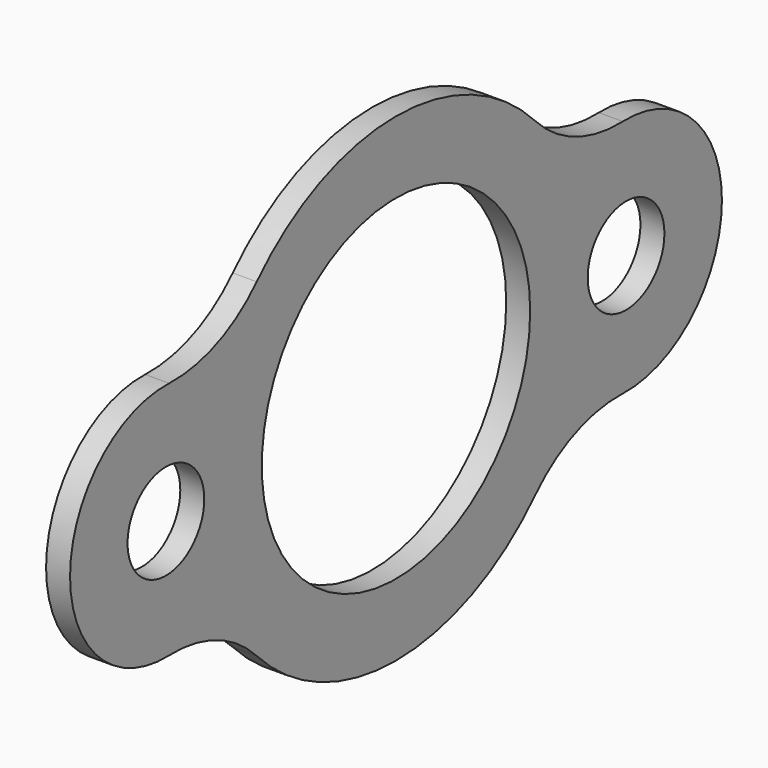
from build123d import *

# Parameters (mm, degrees)
F0_R     = 12.7
F0_R_2   = 44.45
F1_DEPTH = 6.35


with BuildPart() as f1:
    # F0 (on Right) → F1 (new body)
    with BuildSketch(Plane.YZ):
        with BuildLine():
            ThreePointArc((75.117614, 31.731545), (59.347524, 34.564632), (46.136719, 43.630874))
            ThreePointArc((46.136719, 43.630874), (0, 63.5), (-46.136719, 43.630874))
            ThreePointArc((-46.136719, 43.630874), (-59.347524, 34.564632), (-75.117614, 31.731545))
            ThreePointArc((-75.117614, 31.731545), (-107.95, 0), (-75.117614, -31.731545))
            ThreePointArc((-75.117614, -31.731545), (-59.347524, -34.564632), (-46.136719, -43.630874))
            ThreePointArc((-46.136719, -43.630874), (0, -63.5), (46.136719, -43.630874))
            ThreePointArc((46.136719, -43.630874), (59.347524, -34.564632), (75.117614, -31.731545))
            ThreePointArc((75.117614, -31.731545), (107.95, 0), (75.117614, 31.731545))
        make_face()
        with Locations((-76.2, 0)):
            Circle(F0_R, mode=Mode.SUBTRACT)
        Circle(F0_R_2, mode=Mode.SUBTRACT)
        with Locations((76.2, 0)):
            Circle(F0_R, mode=Mode.SUBTRACT)
    extrude(amount=F1_DEPTH)


solid = f1.part
